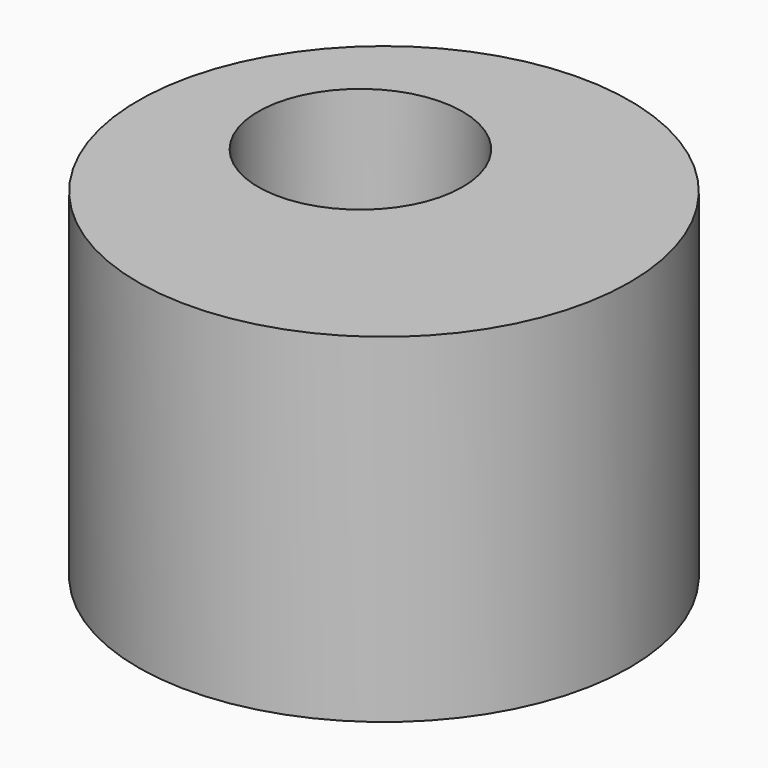
from build123d import *

# Parameters (mm, degrees)
F0_R      = 24.311566
F1_DEPTH  = 33.528
F2_R      = 24.311566
F2_R_2    = 6.595336
F1_FACE_R = 24.311566
F3_DEPTH  = 25.4
F4_R      = 24.311566
F4_R_2    = 10.101211
F5_DEPTH  = 25.4


with BuildPart() as f1:
    # F0 (on Top) → F1 (new body)
    with BuildSketch(Plane.XY):
        with Locations((-18.654427, 15.885411)):
            Circle(F0_R)
    extrude(amount=-F1_DEPTH)

    # F2 (on face) + F1_face (on face) → F3 (cut)
    with BuildSketch(Plane.XY):
        with Locations((-18.654427, 15.885411)):
            Circle(F2_R)
        with Locations((-23.900984, 19.966066)):
            Circle(F2_R_2, mode=Mode.SUBTRACT)
        with Locations((-23.900984, 19.966066)):
            Circle(F2_R_2)
    with BuildSketch(Plane(origin=(-18.654427, 15.885411, 0), x_dir=(1, 0, 0), z_dir=(0, 0, 1))):
        Circle(F1_FACE_R)
        Circle(F1_FACE_R)
    extrude(amount=-F3_DEPTH, mode=Mode.SUBTRACT)

    # F4 (on face) → F5 (join)
    with BuildSketch(Plane.XY.offset(-25.4)):
        with Locations((-18.654427, 15.885411)):
            Circle(F4_R)
        with Locations((-24.483934, 20.257542)):
            Circle(F4_R_2, mode=Mode.SUBTRACT)
    extrude(amount=F5_DEPTH)


solid = f1.part
